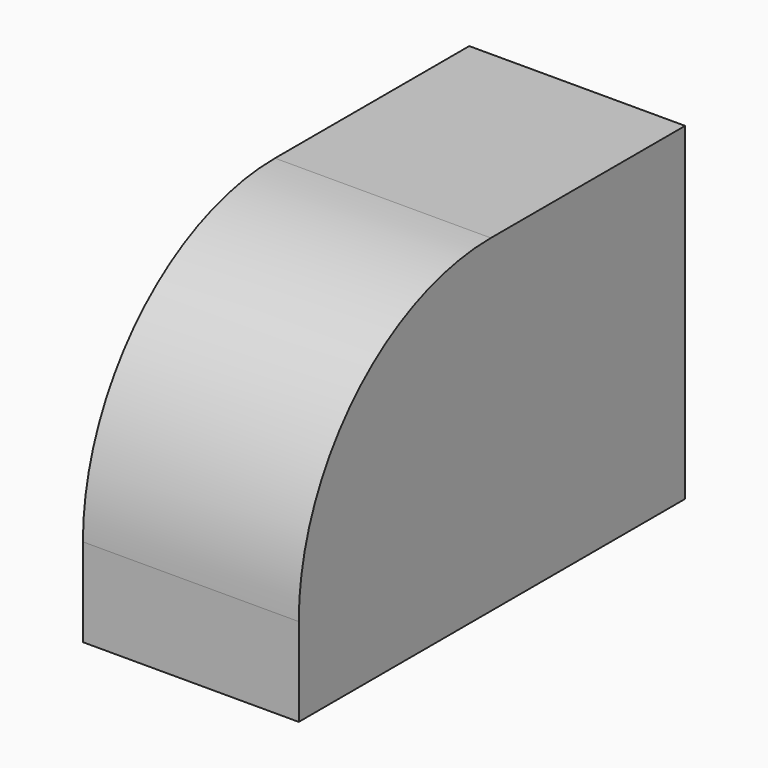
from build123d import *

# Parameters (mm, degrees)
F0_W     = 101.286828
F0_H     = 68.889946
F1_DEPTH = 45.275418
F2_R     = 50.358539


with BuildPart() as f1:
    # F0 (on Right) → F1 (new body)
    with BuildSketch(Plane.YZ):
        with Locations((14.08571, 0)):
            Rectangle(F0_W, F0_H)
    extrude(amount=F1_DEPTH)

    # F2
    f2_edges = [f1.edges().sort_by_distance(p)[0] for p in [
        (22.637709, -36.557704, 34.444973),
    ]]
    fillet(f2_edges, radius=F2_R)


solid = f1.part
